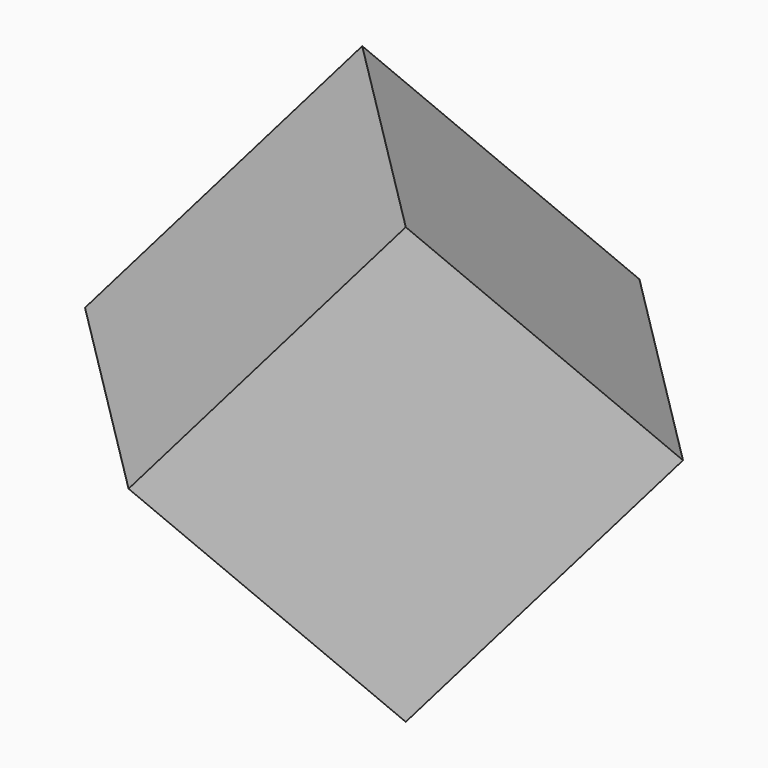
from build123d import *

# Parameters (mm, degrees)
F0_W     = 15
F0_H     = 15
F1_DEPTH = 15
F4_ANGLE = 45
F5_ANGLE = 45


with BuildPart() as f1:
    # F0 (on Front) → F1 (new body)
    with BuildSketch(Plane.XZ):
        with Locations((-7.5, 7.5)):
            Rectangle(F0_W, F0_H)
    extrude(amount=F1_DEPTH)


with BuildPart() as f1_1:
    # F4: moved
    add(f1.part.rotate(Axis((-5.703268, 0, 0), (-1, 0, 0)), F4_ANGLE))


with BuildPart() as f1_2:
    # F5: moved
    add(f1_1.part.rotate(Axis((0, 0, 2.941495), (0, 0, -1)), F5_ANGLE))


solid = f1_2.part
